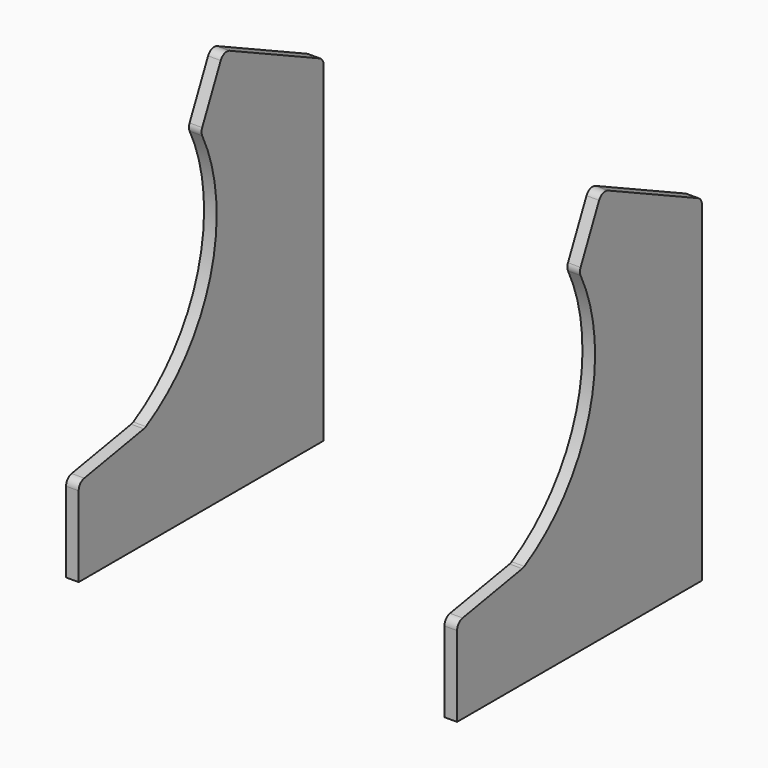
from build123d import *

# Parameters (mm, degrees)
F1_DEPTH = 19.05


with BuildPart() as f1:
    # F0 (on Right) → F1 (new body)
    with BuildSketch(Plane.YZ):
        with BuildLine():
            Line((0, 0), (0, 499.909208))
            ThreePointArc((0, 499.909208), (-1.988929, 506.732913), (-7.332748, 511.419317))
            Line((-7.332748, 511.419317), (-177.255677, 590.65568))
            ThreePointArc((-177.255677, 590.65568), (-186.966585, 591.079667), (-194.133038, 584.512823))
            Line((-194.133038, 584.512823), (-229.082074, 509.564372))
            ThreePointArc((-229.082074, 509.564372), (-230.271004, 504.04088), (-228.94654, 498.548311))
            ThreePointArc((-228.94654, 498.548311), (-213.423467, 305.583267), (-335.309851, 155.183189))
            ThreePointArc((-335.309851, 155.183189), (-337.242553, 154.307463), (-339.294079, 153.765736))
            Line((-339.294079, 153.765736), (-451.785332, 133.930493))
            ThreePointArc((-451.785332, 133.930493), (-459.308764, 129.586837), (-462.28, 121.423435))
            Line((-462.28, 121.423435), (-462.28, 0))
            Line((-462.28, 0), (0, 0))
        make_face()
    extrude(amount=F1_DEPTH)


with BuildPart() as f2_1:
    # F2: copy of F1
    add(f1.part.moved(Location((571.5, 0, 0))))


solid = Compound([f1.part, f2_1.part])
